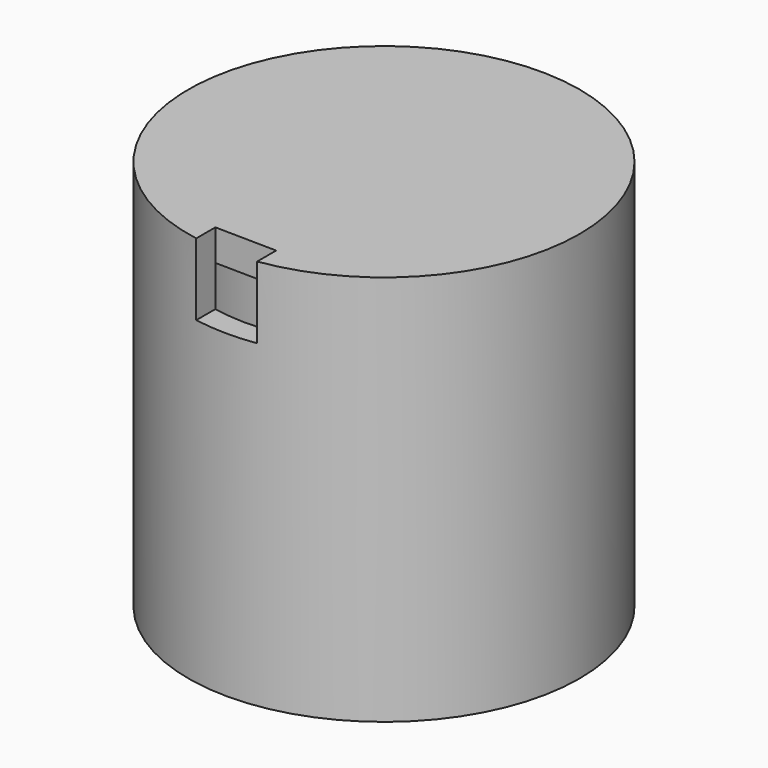
from build123d import *

# Parameters (mm, degrees)
F0_R     = 12.5
F0_R_2   = 11
F1_DEPTH = 25
F3_W     = 3.9352367166
F3_H     = 6.3360165805
F4_DEPTH = 4.6
F6_DEPTH = 2


with BuildPart() as f1:
    # F0 (on Top) → F1 (new body)
    with BuildSketch(Plane.XY):
        Circle(F0_R)
        Circle(F0_R_2, mode=Mode.SUBTRACT)
    extrude(amount=-F1_DEPTH)

    # F3 (on Top) → F4 (cut)
    with BuildSketch(Plane.XY):
        with Locations((-0.1754433615, -12.4150682241)):
            Rectangle(F3_W, F3_H)
    extrude(amount=-F4_DEPTH, mode=Mode.SUBTRACT)

    # F5 (on face) → F6 (join)
    with BuildSketch(Plane.XY):
        with BuildLine():
            Line((-2.1430617198, -10.7892208461), (1.7921749968, -10.853023025))
            ThreePointArc((1.7921749968, -10.853023025), (0.1783200847, 10.998554539), (-2.1430617198, -10.7892208461))
        make_face()
    extrude(amount=-F6_DEPTH)


solid = f1.part
